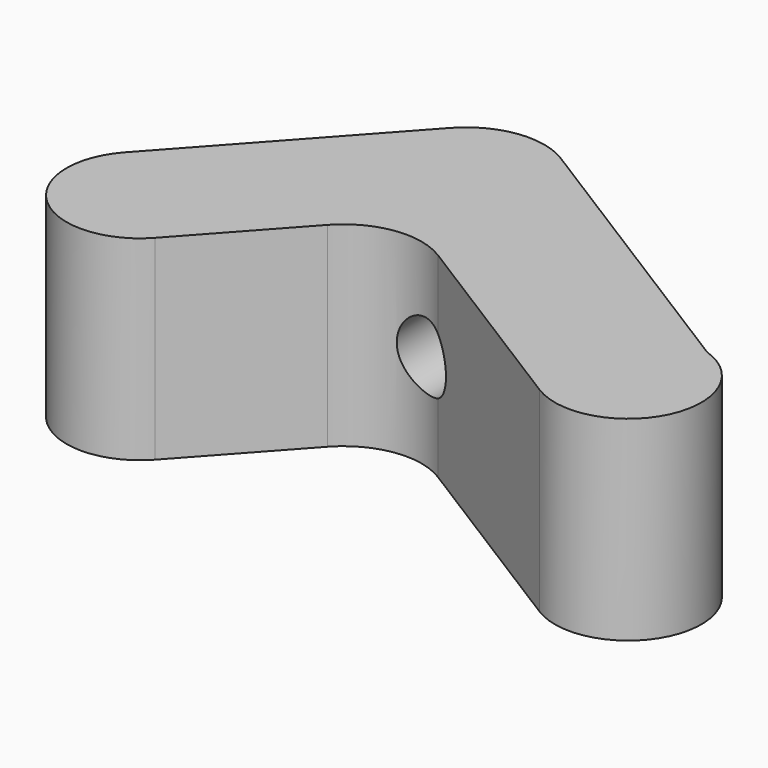
from build123d import *

# Parameters (mm, degrees)
F1_DEPTH = 6.35
F2_R     = 5.08
F3_R     = 2.159
F4_DEPTH = 17.286523


with BuildPart() as f1:
    # F0 (on Top) → F1 (new body, symmetric)
    with BuildSketch(Plane.XY):
        with BuildLine():
            Line((-4.284978, 18.774289), (-18.370262, 3.193811))
            ThreePointArc((-18.370262, 3.193811), (-18.031229, -3.532843), (-11.304576, -3.193811))
            Line((-11.304576, -3.193811), (-2.490694, 6.55569))
            Line((-2.490694, 6.55569), (14.380764, -4.033771))
            ThreePointArc((14.380764, -4.033771), (20.623101, -2.98554), (20.310992, 3.336497))
            Line((20.310992, 3.336497), (18.439706, 4.511019))
            Line((18.439706, 4.511019), (-4.284978, 18.774289))
        make_face()
        with BuildLine():
            ThreePointArc((20.310992, 3.336497), (19.444399, 4.033771), (18.439706, 4.511019))
            Line((18.439706, 4.511019), (20.310992, 3.336497))
        make_face()
    extrude(amount=F1_DEPTH, both=True)

    # F2
    f2_edges = [f1.edges().sort_by_distance(p)[0] for p in [
        (-4.284978, 18.774289, 0),
        (-2.490694, 6.55569, 0),
    ]]
    fillet(f2_edges, radius=F2_R)

    # F3 (on Front) → F4 (cut, through all)
    with BuildSketch(Plane.XZ):
        Circle(F3_R)
    extrude(amount=-F4_DEPTH, mode=Mode.SUBTRACT)


solid = f1.part
